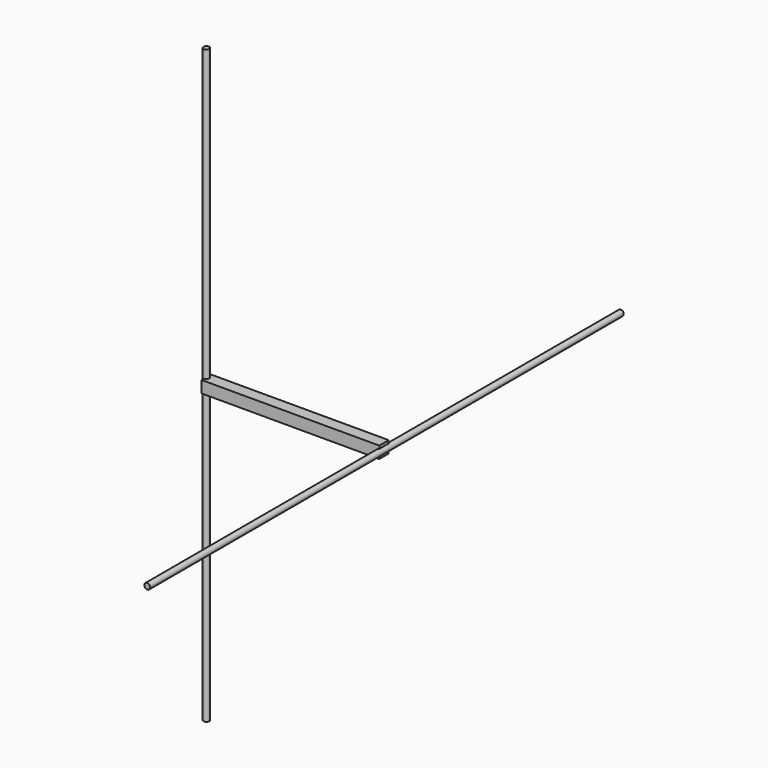
from build123d import *

# Parameters (mm, degrees)
F3_R     = 0.5
F4_DEPTH = 50
F5_R     = 0.5
F6_DEPTH = 50
F7_W     = 2
F7_H     = 2
F8_DEPTH = 30


with BuildPart() as f4:
    # F3 (on Front) → F4 (new body, symmetric)
    with BuildSketch(Plane.XZ):
        Circle(F3_R)
    extrude(amount=F4_DEPTH, both=True)



with BuildPart() as f6:
    # F5 (on Top) → F6 (new body, symmetric)
    with BuildSketch(Plane.XY):
        with Locations((-30, 0)):
            Circle(F5_R)
    extrude(amount=F6_DEPTH, both=True)


with BuildPart() as f4_1:
    add(f4.part)

    add(f6.part)  # F8 merges F6
    # F7 (on Right) → F8 (join)
    with BuildSketch(Plane.YZ):
        Rectangle(F7_W, F7_H)
    extrude(amount=-F8_DEPTH)


solid = f4_1.part
